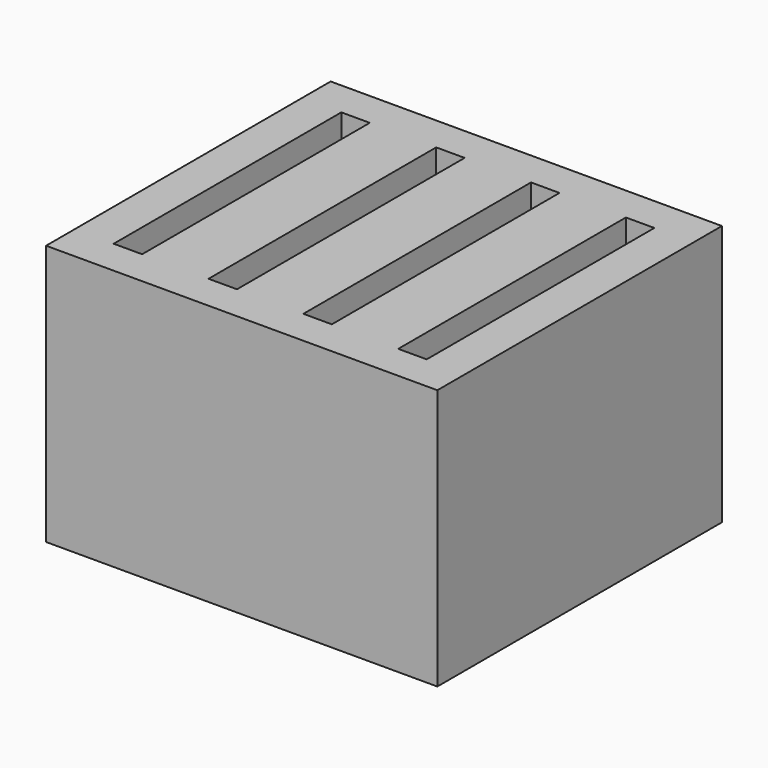
from build123d import *

# Parameters (mm, degrees)
BOX002_W     = 2.4
BOX002_H     = 24
BOX002_DEPTH = 20
BOX003_W     = 2.4
BOX003_H     = 24
BOX003_DEPTH = 20
BOX004_W     = 2.4
BOX004_H     = 24
BOX004_DEPTH = 20
BOX001_W     = 2.4
BOX001_H     = 24
BOX001_DEPTH = 20
BOX_W        = 33
BOX_H        = 30
BOX_DEPTH    = 22


with BuildPart() as box002:
    # Box002 → Box002 (new body)
    with BuildSketch(Plane(origin=(8, -28, 0), x_dir=(1, 0, 0), z_dir=(0, 0, 1))):
        with Locations((1.2, 12)):
            Rectangle(BOX002_W, BOX002_H)
    extrude(amount=BOX002_DEPTH)


with BuildPart() as box003:
    # Box003 → Box003 (new body)
    with BuildSketch(Plane(origin=(16, -28, 0), x_dir=(1, 0, 0), z_dir=(0, 0, 1))):
        with Locations((1.2, 12)):
            Rectangle(BOX003_W, BOX003_H)
    extrude(amount=BOX003_DEPTH)


with BuildPart() as box004:
    # Box004 → Box004 (new body)
    with BuildSketch(Plane(origin=(24, -28, 0), x_dir=(1, 0, 0), z_dir=(0, 0, 1))):
        with Locations((1.2, 12)):
            Rectangle(BOX004_W, BOX004_H)
    extrude(amount=BOX004_DEPTH)


with BuildPart() as fusion:
    # Box001 → Box001 (new body)
    with BuildSketch(Plane(origin=(0, -28, 0), x_dir=(1, 0, 0), z_dir=(0, 0, 1))):
        with Locations((1.2, 12)):
            Rectangle(BOX001_W, BOX001_H)
    extrude(amount=BOX001_DEPTH)

    # Fusion: union Box002, Box003, Box004
    add(box002.part)
    add(box003.part)
    add(box004.part)


with BuildPart() as fusion_1:
    # Fusion placement: moved
    add(fusion.part.moved(Location((-13.2, 31, 4))))


with BuildPart() as cut:
    # Box → Box (new body)
    with BuildSketch(Plane(origin=(-16.5, 0, 0), x_dir=(1, 0, 0), z_dir=(0, 0, 1))):
        with Locations((16.5, 15)):
            Rectangle(BOX_W, BOX_H)
    extrude(amount=BOX_DEPTH)

    # Cut: cut Fusion
    add(fusion_1.part, mode=Mode.SUBTRACT)


solid = cut.part
